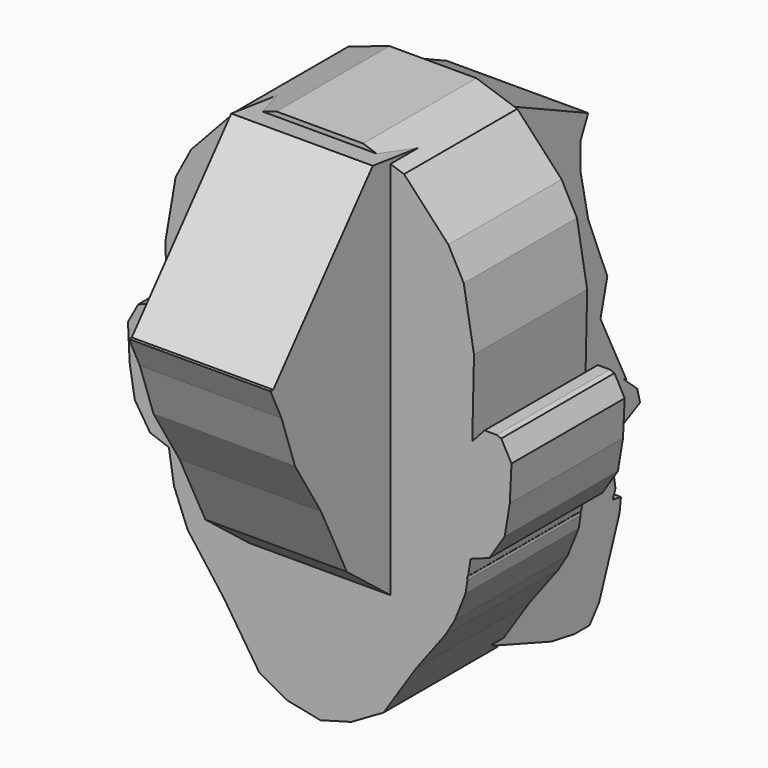
from build123d import *

# Parameters (mm, degrees)
F0_W     = 42.5292160362
F0_H     = 54.7678396106
F1_DEPTH = 25.4
F5_DEPTH = 12.7
F6_DEPTH = 12.7


with BuildPart() as f1:
    # F0 (on Right) → F1 (new body)
    with BuildSketch(Plane.YZ):
        with Locations((0.3059664741, 8.7200179696)):
            Rectangle(F0_W, F0_H)
    extrude(amount=F1_DEPTH)


with BuildPart() as f5:
    # F4 (on Front) → F5 (new body, symmetric)
    with BuildSketch(Plane.XZ):
        Polygon((7.8021222726, 46.5067662299), (-7.8021222726, 46.5067662299), (-15.1452962309, 44.0590418875), (-23.1004003435, 35.4920066893), (-25.8540920913, 30.2905943245), (-27.6898853481, 19.5817966014), (-27.3839198053, 5.8133457787), (-30.1376096904, 8.8730016723), (-32.5853340328, 7.9551050439), (-34.4211272895, 4.5894836076), (-34.1151617467, -1.8357934896), (-33.1972651184, -7.3431739584), (-30.4435752332, -11.6266915575), (-27.0779542625, -12.85055466), (-26.1600576341, -18.6639018357), (-23.7123332918, -24.7832108289), (-17.2870550305, -33.3502478898), (-10.8617777005, -43.1411489844), (-5.9663290158, -45.8948388696), (0.1529839792, -47.1187010407), (5.6603644043, -45.5888696015), (11.4582879852, -42.2321807174), (17.2870550305, -33.3502478898), (22.4884822373, -26.4150121165), (24.2018731435, -23.5593615721), (26.1600576341, -18.6639018357), (26.5130960305, -16.4279912753), (26.4660250396, -15.9102100879), (26.6190057487, -15.7572295118), (27.0779542625, -12.85055466), (30.4435752332, -11.6266915575), (33.1972651184, -7.3431739584), (34.1151617467, -1.8357934896), (34.4211272895, 4.5894836076), (32.5853340328, 7.9551050439), (31.7694234351, 8.2610715181), (29.5868726354, 8.2610715181), (27.3839198053, 5.8133457787), (27.6898853481, 19.5817966014), (25.8540920913, 30.2905943245), (23.1004003435, 35.4920066893), (15.1452962309, 44.0590418875), align=None)
    extrude(amount=F5_DEPTH, both=True)

    # F3 (on Right) → F6 (join, symmetric)
    with BuildSketch(Plane.YZ):
        Polygon((-16.6751239449, 46.2008044124), (-39.0106141567, 19.8877640069), (-39.6225452423, 19.8877640069), (-37.1748209, 14.6863479167), (-34.1151617467, 5.8133457787), (-28.3018164337, -3.6715869792), (-22.4884711206, -15.6042445451), (-11.1677432433, -24.4772471488), (-1.3768438948, -33.0442860723), (10.555813089, -40.6934246421), (23.4063696116, -45.282907784), (28.6077857018, -46.2008044124), (31.9734066725, -46.2008044124), (34.115165472, -43.4471108019), (38.7046486139, -31.2084890902), (39.0106141567, -28.7607647479), (37.1748209, -28.4547992051), (37.7867519855, -26.9249714911), (36.2569242716, -17.7460033447), (39.6225452423, -17.4400378019), (43.2941317558, -15.6042445451), (42.6822006702, -13.1565211341), (39.6225452423, -10.4028293863), (40.2344763279, -10.7087958604), (34.4211310148, 1.2238622876), (35.9509587288, 7.3431739584), (31.6674411297, 18.0519688874), (29.9477812825, 26.3130422682), (29.9477812825, 31.1950890951), (31.6674411297, 34.8800756037), (13.3095029742, 43.4471108019), (4.7424673103, 43.4471108019), align=None)
    extrude(amount=F6_DEPTH, both=True)


solid = f5.part
